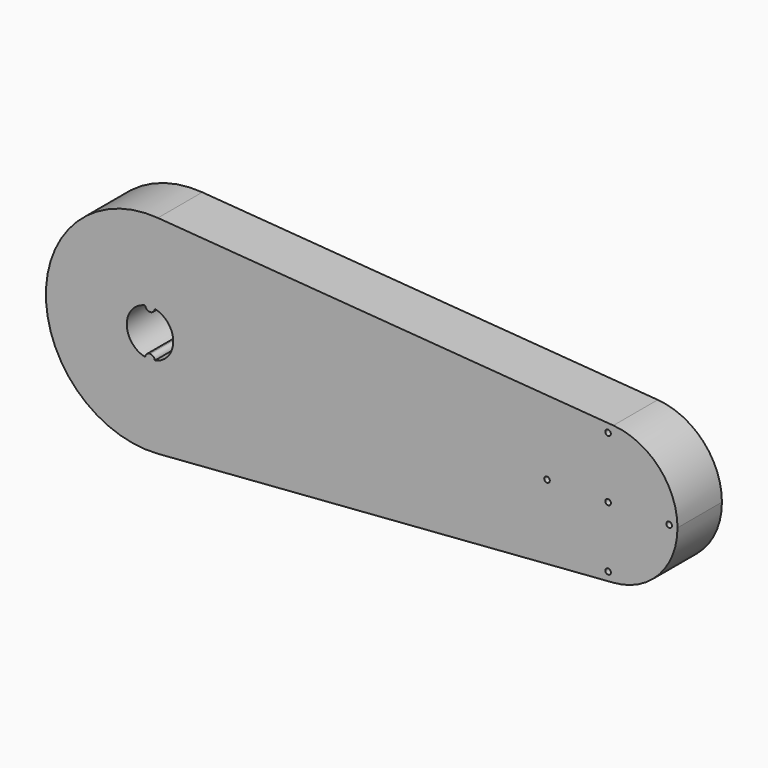
from build123d import *

# Parameters (mm, degrees)
F0_R     = 12.5
F0_R_2   = 1
F1_DEPTH = 20
F2_DEPTH = 2.5


with BuildPart() as f1:
    # F0 (on Front) → F1 (new body)
    with BuildSketch(Plane.XZ):
        with BuildLine():
            ThreePointArc((2.8409090909, 37.3922349631), (27.5025825234, 25.4923116752), (37.5, 0))
            ThreePointArc((37.5, 0), (27.5025825234, -25.4923116752), (2.8409090909, -37.3922349631))
            Line((2.8409090909, -37.3922349631), (166.8939393939, -24.9281566421))
            ThreePointArc((166.8939393939, -24.9281566421), (140, 0), (166.8939393939, 24.9281566421))
            Line((166.8939393939, 24.9281566421), (2.8409090909, 37.3922349631))
        make_face()
        with BuildLine():
            ThreePointArc((2.8409090909, -37.3922349631), (27.5025825234, -25.4923116752), (37.5, 0))
            ThreePointArc((37.5, 0), (27.5025825234, 25.4923116752), (2.8409090909, 37.3922349631))
            ThreePointArc((2.8409090909, 37.3922349631), (-37.5, 0), (2.8409090909, -37.3922349631))
        make_face()
        Circle(F0_R, mode=Mode.SUBTRACT)
        with BuildLine():
            ThreePointArc((190, 0), (183.3350550156, 16.9948744501), (166.8939393939, 24.9281566421))
            ThreePointArc((166.8939393939, 24.9281566421), (140, 0), (166.8939393939, -24.9281566421))
            ThreePointArc((166.8939393939, -24.9281566421), (183.3350550156, -16.9948744501), (190, 0))
        make_face()
        with Locations((165, -22)):
            Circle(F0_R_2, mode=Mode.SUBTRACT)
        with Locations((143, 0)):
            Circle(F0_R_2, mode=Mode.SUBTRACT)
        with Locations((165, 0)):
            Circle(F0_R_2, mode=Mode.SUBTRACT)
        with Locations((187, 0)):
            Circle(F0_R_2, mode=Mode.SUBTRACT)
        with Locations((165, 22)):
            Circle(F0_R_2, mode=Mode.SUBTRACT)
        Circle(F0_R)
        with BuildLine():
            ThreePointArc((1.7404226678, 8.1921641791), (6.5083279282, 5.2708910612), (8.375, 0))
            ThreePointArc((8.375, 0), (6.5083279282, -5.2708910612), (1.7404226678, -8.1921641791))
            ThreePointArc((1.7404226678, -8.1921641791), (0, -8.375), (-1.7404226678, -8.1921641791))
            ThreePointArc((-1.7404226678, -8.1921641791), (-8.375, 0), (-1.7404226678, 8.1921641791))
            ThreePointArc((-1.7404226678, 8.1921641791), (0, 8.375), (1.7404226678, 8.1921641791))
        make_face(mode=Mode.SUBTRACT)
        with BuildLine():
            ThreePointArc((0, 6.625), (1.171011809, 7.0745264927), (1.7404226678, 8.1921641791))
            ThreePointArc((1.7404226678, 8.1921641791), (0, 8.375), (-1.7404226678, 8.1921641791))
            ThreePointArc((-1.7404226678, 8.1921641791), (-1.171011809, 7.0745264927), (0, 6.625))
        make_face()
        with BuildLine():
            ThreePointArc((-1.7404226678, -8.1921641791), (0, -8.375), (1.7404226678, -8.1921641791))
            ThreePointArc((1.7404226678, -8.1921641791), (1.171011809, -7.0745264927), (0, -6.625))
            ThreePointArc((0, -6.625), (-1.171011809, -7.0745264927), (-1.7404226678, -8.1921641791))
        make_face()
    extrude(amount=F1_DEPTH)

    # F0 (on Front) → F2 (join, symmetric)
    with BuildSketch(Plane.XZ):
        with BuildLine():
            ThreePointArc((1.7404226678, -8.1921641791), (6.5083279282, -5.2708910612), (8.375, 0))
            ThreePointArc((8.375, 0), (6.5083279282, 5.2708910612), (1.7404226678, 8.1921641791))
            ThreePointArc((1.7404226678, 8.1921641791), (1.171011809, 7.0745264927), (0, 6.625))
            ThreePointArc((0, 6.625), (-1.171011809, 7.0745264927), (-1.7404226678, 8.1921641791))
            ThreePointArc((-1.7404226678, 8.1921641791), (-8.375, 0), (-1.7404226678, -8.1921641791))
            ThreePointArc((-1.7404226678, -8.1921641791), (-1.171011809, -7.0745264927), (0, -6.625))
            ThreePointArc((0, -6.625), (1.171011809, -7.0745264927), (1.7404226678, -8.1921641791))
        make_face()
    extrude(amount=F2_DEPTH, both=True)


solid = f1.part
